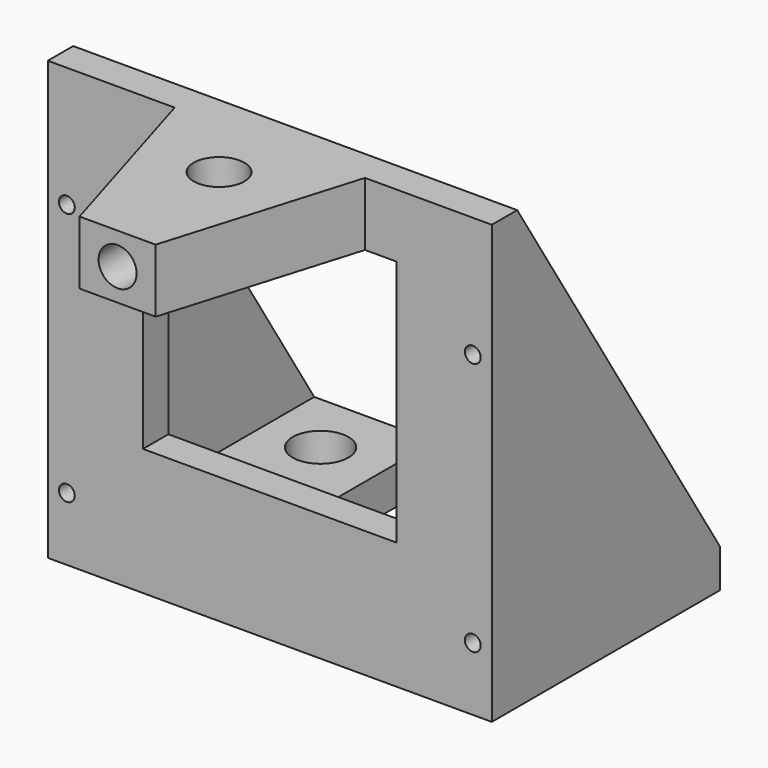
from build123d import *

# Parameters (mm, degrees)
F0_R      = 4.4
F1_DEPTH  = 69
F2_W      = 30
F2_H      = 59
F3_DEPTH  = 70.001
F4_W      = 19
F4_H      = 20
F4_R      = 4.4
F5_DEPTH  = 63
F7_DEPTH  = 70.001
F8_W      = 40
F8_H      = 39
F9_DEPTH  = 45.001
F10_R     = 4
F11_DEPTH = 69.001
F12_R     = 3
F13_DEPTH = 17.3552487891
F15_DEPTH = 69.001
F16_R     = 1.25
F17_DEPTH = 25


with BuildPart() as f1:
    # F0 (on Top) → F1 (new body)
    with BuildSketch(Plane.XY):
        Polygon((-35, -37.5), (35, -37.5), (35, 37.5), (10, 37.5), (10, 17.5), (29, 17.5), (29, -2.5), (-29, -2.5), (-29, 17.5), (-10, 17.5), (-10, 37.5), (-35, 37.5), align=None)
        with Locations((-20, 27.5)):
            Circle(F0_R, mode=Mode.SUBTRACT)
        with Locations((20, 27.5)):
            Circle(F0_R, mode=Mode.SUBTRACT)
    extrude(amount=F1_DEPTH)

    # F2 (on face) → F3 (cut, through all)
    with BuildSketch(Plane(origin=(-35, 0, 0), x_dir=(0, -1, 0), z_dir=(-1, 0, 0))):
        with Locations((22.5, 29.5)):
            Rectangle(F2_W, F2_H)
    extrude(amount=-F3_DEPTH, mode=Mode.SUBTRACT)

    # F4 (on face) → F5 (cut)
    with BuildSketch(Plane.XY.offset(69)):
        with Locations((19.5, 27.5)):
            Rectangle(F4_W, F4_H)
        with Locations((20, 27.5)):
            Circle(F4_R, mode=Mode.SUBTRACT)
        with Locations((-19.5, 27.5)):
            Rectangle(F4_W, F4_H)
        with Locations((-20, 27.5)):
            Circle(F4_R, mode=Mode.SUBTRACT)
    extrude(amount=-F5_DEPTH, mode=Mode.SUBTRACT)

    # F6 (on face) → F7 (cut, through all)
    with BuildSketch(Plane(origin=(-35, 0, 0), x_dir=(0, -1, 0), z_dir=(-1, 0, 0))):
        Polygon((2.5, 69), (-37.5, 69), (-37.5, 6), align=None)
    extrude(amount=-F7_DEPTH, mode=Mode.SUBTRACT)

    # F8 (on face) → F9 (cut, through all)
    with BuildSketch(Plane.XZ.offset(7.5)):
        with Locations((0, 39.5)):
            Rectangle(F8_W, F8_H)
    extrude(amount=-F9_DEPTH, mode=Mode.SUBTRACT)

    # F10 (on face) → F11 (cut, through all)
    with BuildSketch(Plane.XY.offset(69)):
        with Locations((0, -17.5)):
            Circle(F10_R)
    extrude(amount=-F11_DEPTH, mode=Mode.SUBTRACT)

    # F12 (on face) → F13 (cut, through all)
    with BuildSketch(Plane.XZ.offset(37.5)):
        with Locations((0, 64)):
            Circle(F12_R)
    extrude(amount=-F13_DEPTH, mode=Mode.SUBTRACT)

    # F14 (on face) → F15 (cut, through all)
    with BuildSketch(Plane.XY.offset(69)):
        Polygon((-15, -7.5), (-35, -7.5), (-35, -37.5), (-6, -37.5), align=None)
        Polygon((15, -7.5), (6, -37.5), (35, -37.5), (35, -7.5), align=None)
    extrude(amount=-F15_DEPTH, mode=Mode.SUBTRACT)

    # F16 (on face) → F17 (cut)
    with BuildSketch(Plane.XZ.offset(7.5)):
        with Locations((-32, 50)):
            Circle(F16_R)
        with Locations((-32, 10)):
            Circle(F16_R)
        with Locations((32, 50)):
            Circle(F16_R)
        with Locations((32, 10)):
            Circle(F16_R)
    extrude(amount=-F17_DEPTH, mode=Mode.SUBTRACT)


solid = f1.part
